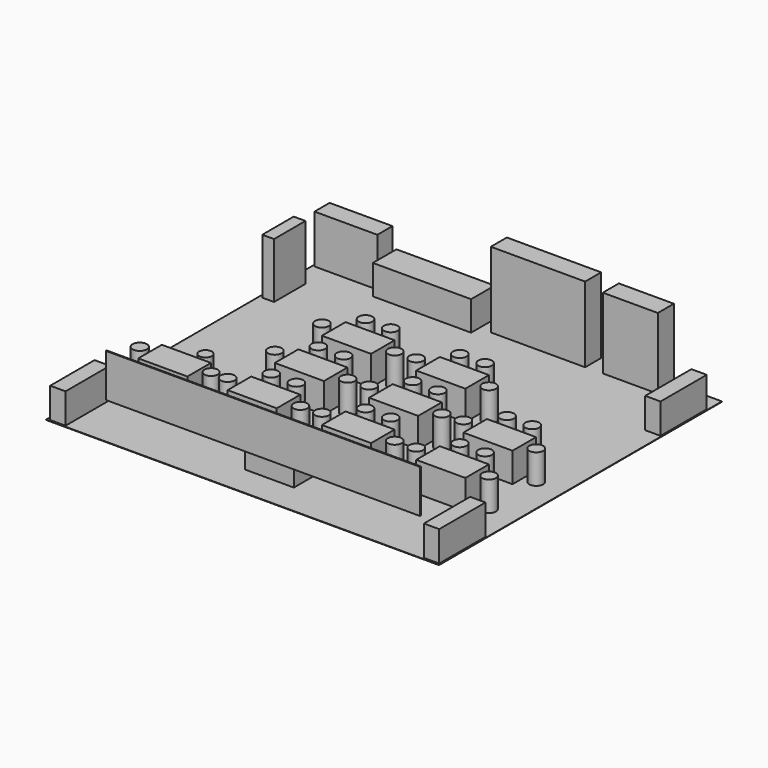
from build123d import *

# Parameters (mm, degrees)
F0_W      = 10000
F0_H      = 9000
F1_DEPTH  = 10
F2_W      = 1250
F2_H      = 750
F2_R      = 175
F3_DEPTH  = 750
F5_W      = 8000
F5_H      = 1100
F6_DEPTH  = 25
F7_W      = 800
F7_H      = 480
F8_DEPTH  = 1230
F9_W      = 1400
F9_H      = 510
F10_DEPTH = 1810
F12_W     = 2500
F12_H     = 750
F13_DEPTH = 750
F14_W     = 1250
F14_H     = 750
F15_DEPTH = 740
F16_R     = 168.608973
F16_R_2   = 160.680386
F16_R_3   = 181.053527
F17_DEPTH = 740
F18_W     = 2400
F18_H     = 510
F19_DEPTH = 1920
F20_W     = 390
F20_H     = 1470
F21_DEPTH = 770
F22_W     = 390
F22_H     = 1470
F23_DEPTH = 770
F25_W     = 300
F25_H     = 1000
F26_DEPTH = 1410
F27_W     = 390
F27_H     = 1410
F28_DEPTH = 770


with BuildPart() as f1:
    # F0 (on Top) → F1 (new body)
    with BuildSketch(Plane.XY):
        Rectangle(F0_W, F0_H)
    extrude(amount=-F1_DEPTH)

    # F2 (on Top) → F3 (join)
    with BuildSketch(Plane.XY):
        with Locations((49.763918, -3335.768461)):
            Rectangle(F2_W, F2_H)
        with Locations((3351.92275, -2008.070798)):
            Rectangle(F2_W, F2_H)
        with Locations((3594.572641, -1278.36784)):
            Circle(F2_R)
        with Locations((2398.594837, -1972.196814)):
            Circle(F2_R)
        with Locations((2957.342418, -1284.579849)):
            Circle(F2_R)
        with Locations((4280.399799, -2008.070798)):
            Circle(F2_R)
        with Locations((3594.572641, 221.63216)):
            Circle(F2_R)
        with Locations((4280.399799, -508.070798)):
            Circle(F2_R)
        with Locations((3351.92275, -508.070798)):
            Rectangle(F2_W, F2_H)
        with Locations((2957.342418, 215.420151)):
            Circle(F2_R)
        with Locations((2398.594837, -472.196814)):
            Circle(F2_R)
        with Locations((1194.572641, -1278.36784)):
            Circle(F2_R)
        with Locations((1880.399799, -2008.070798)):
            Circle(F2_R)
        with Locations((951.92275, -2008.070798)):
            Rectangle(F2_W, F2_H)
        with Locations((557.342418, -1284.579849)):
            Circle(F2_R)
        with Locations((-1.405163, -1972.196814)):
            Circle(F2_R)
        with Locations((1194.572641, 221.63216)):
            Circle(F2_R)
        with Locations((1880.399799, -508.070798)):
            Circle(F2_R)
        with Locations((951.92275, -508.070798)):
            Rectangle(F2_W, F2_H)
        with Locations((557.342418, 215.420151)):
            Circle(F2_R)
        with Locations((-1.405163, -472.196814)):
            Circle(F2_R)
        with Locations((1194.572641, 1721.63216)):
            Circle(F2_R)
        with Locations((1880.399799, 991.929202)):
            Circle(F2_R)
        with Locations((951.92275, 991.929202)):
            Rectangle(F2_W, F2_H)
        with Locations((557.342418, 1715.420151)):
            Circle(F2_R)
        with Locations((-1.405163, 1027.803186)):
            Circle(F2_R)
        with Locations((-1205.427359, -1278.36784)):
            Circle(F2_R)
        with Locations((-519.600201, -2008.070798)):
            Circle(F2_R)
        with Locations((-1448.07725, -2008.070798)):
            Rectangle(F2_W, F2_H)
        with Locations((-1842.657582, -1284.579849)):
            Circle(F2_R)
        with Locations((-2401.405163, -1972.196814)):
            Circle(F2_R)
        with Locations((-1205.427359, 221.63216)):
            Circle(F2_R)
        with Locations((-519.600201, -508.070798)):
            Circle(F2_R)
        with Locations((-1448.07725, -508.070798)):
            Rectangle(F2_W, F2_H)
        with Locations((-1842.657582, 215.420151)):
            Circle(F2_R)
        with Locations((-2401.405163, -472.196814)):
            Circle(F2_R)
        with Locations((-1205.427359, 1721.63216)):
            Circle(F2_R)
        with Locations((-519.600201, 991.929202)):
            Circle(F2_R)
        with Locations((-1448.07725, 991.929202)):
            Rectangle(F2_W, F2_H)
        with Locations((-1842.657582, 1715.420151)):
            Circle(F2_R)
        with Locations((-2401.405163, 1027.803186)):
            Circle(F2_R)
    extrude(amount=F3_DEPTH)

    # F7 (on Top) → F8 (join)
    with BuildSketch(Plane.XY):
        with Locations((-4550, 4216.62117)):
            Rectangle(F7_W, F7_H)
        with Locations((-3750, 4216.62117)):
            Rectangle(F7_W, F7_H)
    extrude(amount=F8_DEPTH)

    # F9 (on Top) → F10 (join)
    with BuildSketch(Plane.XY):
        with Locations((3100, 4216.014977)):
            Rectangle(F9_W, F9_H)
    extrude(amount=F10_DEPTH)


with BuildPart() as f6:
    # F5 (on offset) → F6 (new body)
    with BuildSketch(Plane.XZ.offset(4500)):
        with Locations((600, 1550)):
            Rectangle(F5_W, F5_H)
    extrude(amount=-F6_DEPTH)


with BuildPart() as f1_1:
    # F11: moved
    add(f1.part.moved(Location((0, 100, 0))))

    # F12 (on Top) → F13 (join)
    with BuildSketch(Plane.XY):
        with Locations((-1990.140915, 4170.69912)):
            Rectangle(F12_W, F12_H)
    extrude(amount=F13_DEPTH)

    # F14 (on Top) → F15 (join)
    with BuildSketch(Plane.XY):
        with Locations((-3701.149464, -1934.532046)):
            Rectangle(F14_W, F14_H)
    extrude(amount=F15_DEPTH)

    # F16 (on Top) → F17 (join)
    with BuildSketch(Plane.XY):
        with Locations((-2827.326298, -1866.10961)):
            Circle(F16_R)
        with Locations((-3406.417131, -1321.08283)):
            Circle(F16_R_2)
        with Locations((-4615.695, -1900.173783)):
            Circle(F16_R_3)
    extrude(amount=F17_DEPTH)

    # F18 (on Top) → F19 (join)
    with BuildSketch(Plane.XY):
        with Locations((759.859085, 4303.857441)):
            Rectangle(F18_W, F18_H)
    extrude(amount=F19_DEPTH)

    # F20 (on Top) → F21 (join)
    with BuildSketch(Plane.XY):
        with Locations((4778.589554, 3414.912357)):
            Rectangle(F20_W, F20_H)
    extrude(amount=F21_DEPTH)

    # F22 (on Top) → F23 (join)
    with BuildSketch(Plane.XY):
        with Locations((4776.630707, -3623.034821)):
            Rectangle(F22_W, F22_H)
    extrude(amount=F23_DEPTH)

    # F25 (on Top) → F26 (join)
    with BuildSketch(Plane.XY):
        with Locations((-4772.272682, 2879.772663)):
            Rectangle(F25_W, F25_H)
    extrude(amount=F26_DEPTH)

    # F27 (on Top) → F28 (join)
    with BuildSketch(Plane.XY):
        with Locations((-4727.272682, -3661.163168)):
            Rectangle(F27_W, F27_H)
    extrude(amount=F28_DEPTH)


solid = Compound([f6.part, f1_1.part])
